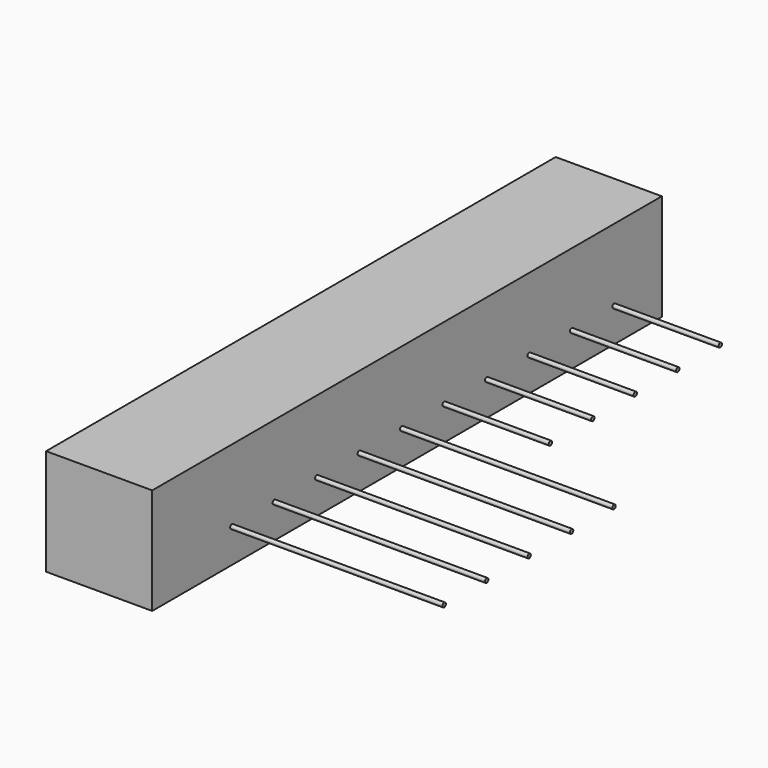
from build123d import *

# Parameters (mm, degrees)
F0_W     = 6.35
F0_H     = 38.1
F1_DEPTH = 6.35
F2_R     = 0.127
F3_DEPTH = 12.7
F4_DEPTH = 6.35


with BuildPart() as f1:
    # F0 (on Top) → F1 (new body)
    with BuildSketch(Plane.XY):
        with Locations((-11.249706, -2.776845)):
            Rectangle(F0_W, F0_H)
    extrude(amount=F1_DEPTH)

    # F2 (on face) → F3 (join)
    with BuildSketch(Plane.YZ.offset(-8.074706)):
        with Locations((-3.175, 2.026659)):
            Circle(F2_R)
        with Locations((-6.35, 2.026659)):
            Circle(F2_R)
        with Locations((-9.525, 2.026659)):
            Circle(F2_R)
        with Locations((-12.7, 2.026659)):
            Circle(F2_R)
        with Locations((-15.875, 2.026659)):
            Circle(F2_R)
    extrude(amount=F3_DEPTH)

    # F2 (on face) → F4 (join)
    with BuildSketch(Plane.YZ.offset(-8.074706)):
        with Locations((12.7, 2.026659)):
            Circle(F2_R)
        with Locations((9.525, 2.026659)):
            Circle(F2_R)
        with Locations((6.35, 2.026659)):
            Circle(F2_R)
        with Locations((3.175, 2.026659)):
            Circle(F2_R)
        with Locations((0, 2.026659)):
            Circle(F2_R)
    extrude(amount=F4_DEPTH)


solid = f1.part
